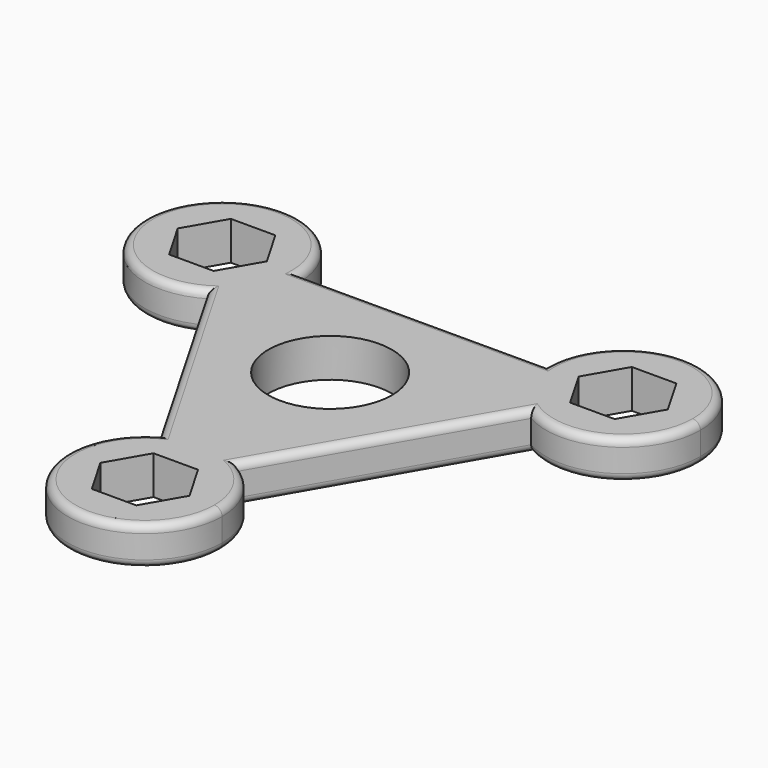
from build123d import *

# Parameters (mm, degrees)
F0_R     = 8
F1_DEPTH = 5
F2_R     = 1


with BuildPart() as f1:
    # F0 (on Top) → F1 (new body)
    with BuildSketch(Plane.XY):
        with BuildLine():
            ThreePointArc((10, -30), (8.660254, -25), (5, -21.339746))
            Line((5, -21.339746), (2.886751, -25))
            Line((2.886751, -25), (5.773503, -30))
            Line((5.773503, -30), (2.886751, -35))
            Line((2.886751, -35), (-2.886751, -35))
            Line((-2.886751, -35), (-5.773503, -30))
            Line((-5.773503, -30), (-2.886751, -25))
            Line((-2.886751, -25), (-5, -21.339746))
            ThreePointArc((-5, -21.339746), (-5, -38.660254), (10, -30))
        make_face()
        with BuildLine():
            ThreePointArc((20.980762, 6.339746), (17.320508, 10), (15.980762, 15))
            Line((15.980762, 15), (-15.980762, 15))
            ThreePointArc((-15.980762, 15), (-17.320508, 10), (-20.980762, 6.339746))
            Line((-20.980762, 6.339746), (-5, -21.339746))
            ThreePointArc((-5, -21.339746), (0, -20), (5, -21.339746))
            Line((5, -21.339746), (20.980762, 6.339746))
        make_face()
        Circle(F0_R, mode=Mode.SUBTRACT)
        with BuildLine():
            ThreePointArc((-20.980762, 6.339746), (-17.320508, 10), (-15.980762, 15))
            ThreePointArc((-15.980762, 15), (-34.641016, 20), (-20.980762, 6.339746))
        make_face()
        Polygon((-31.754265, 15), (-28.867513, 20), (-23.094011, 20), (-20.207259, 15), (-23.094011, 10), (-28.867513, 10), align=None, mode=Mode.SUBTRACT)
        with BuildLine():
            Line((20.207259, 15), (23.094011, 20))
            Line((23.094011, 20), (28.867513, 20))
            Line((28.867513, 20), (31.754265, 15))
            Line((31.754265, 15), (28.867513, 10))
            Line((28.867513, 10), (23.094011, 10))
            Line((23.094011, 10), (20.980762, 6.339746))
            ThreePointArc((20.980762, 6.339746), (30.980762, 6.339746), (35.980762, 15))
            ThreePointArc((35.980762, 15), (25.980762, 25), (15.980762, 15))
            Line((15.980762, 15), (20.207259, 15))
        make_face()
        with BuildLine():
            Line((2.886751, -25), (5, -21.339746))
            ThreePointArc((5, -21.339746), (0, -20), (-5, -21.339746))
            Line((-5, -21.339746), (-2.886751, -25))
            Line((-2.886751, -25), (2.886751, -25))
        make_face()
        with BuildLine():
            Line((23.094011, 10), (20.207259, 15))
            Line((20.207259, 15), (15.980762, 15))
            ThreePointArc((15.980762, 15), (17.320508, 10), (20.980762, 6.339746))
            Line((20.980762, 6.339746), (23.094011, 10))
        make_face()
    extrude(amount=F1_DEPTH)

    # F2
    f2_edges = [f1.edges().sort_by_distance(p)[0] for p in [
        (-34.641016, 20, 5),
        (0, 15, 5),
        (34.641016, 20, 5),
        (12.990381, -7.5, 5),
        (-5, -38.660254, 5),
        (-12.990381, -7.5, 5),
        (12.990381, -7.5, 0),
        (34.641016, 20, 0),
        (0, 15, 0),
        (-34.641016, 20, 0),
        (-5, -38.660254, 0),
        (-12.990381, -7.5, 0),
    ]]
    fillet(f2_edges, radius=F2_R)


solid = f1.part
